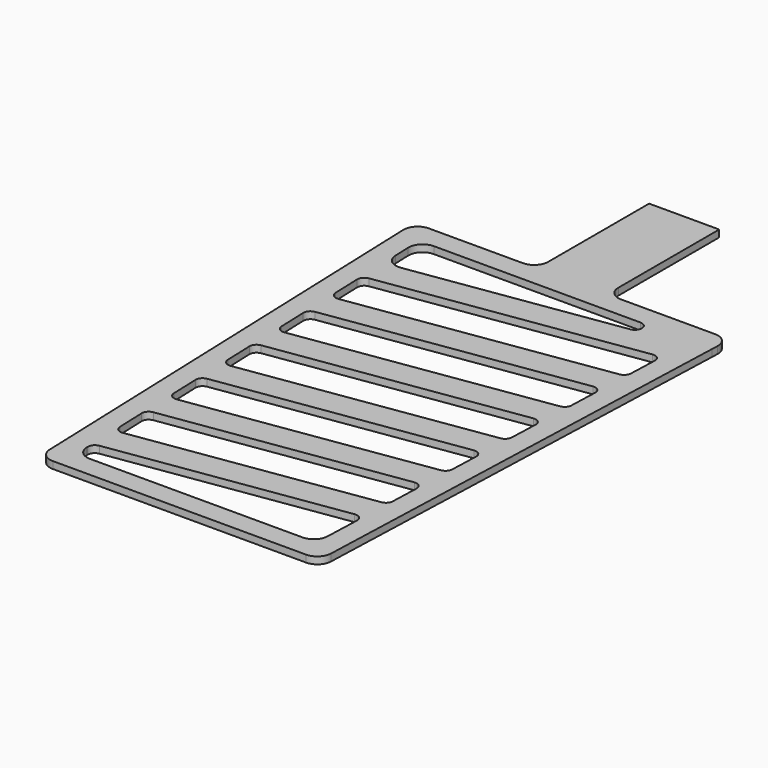
from build123d import *

# Parameters (mm, degrees)
F1_DEPTH = 1


with BuildPart() as f1:
    # F0 (on Top) → F1 (new body)
    with BuildSketch(Plane.XY):
        with BuildLine():
            Line((-22.392857, 32), (-20.068879, -33.071383))
            ThreePointArc((-20.068879, -33.071383), (-19.4589, -34.43923), (-18.070153, -35))
            Line((-18.070153, -35), (18.070153, -35))
            ThreePointArc((18.070153, -35), (19.4589, -34.43923), (20.068879, -33.071383))
            Line((20.068879, -33.071383), (22.392857, 32))
            Line((22.392857, 32), (22.426022, 32.928617))
            ThreePointArc((22.426022, 32.928617), (21.866526, 34.388747), (20.427296, 35))
            Line((20.427296, 35), (7, 35))
            ThreePointArc((7, 35), (5.585786, 35.585786), (5, 37))
            Line((5, 37), (5, 55))
            Line((5, 55), (-5, 55))
            Line((-5, 55), (-5, 37))
            ThreePointArc((-5, 37), (-5.585786, 35.585786), (-7, 35))
            Line((-7, 35), (-20.427296, 35))
            ThreePointArc((-20.427296, 35), (-21.866526, 34.388747), (-22.426022, 32.928617))
            Line((-22.426022, 32.928617), (-22.392857, 32))
        make_face()
        with BuildLine():
            Line((-16.32887, -28.869881), (16.206912, -24.007376))
            ThreePointArc((16.206912, -24.007376), (17.020899, -24.250598), (17.354084, -25.032083))
            Line((17.354084, -25.032083), (17.174109, -30.071383))
            ThreePointArc((17.174109, -30.071383), (16.56413, -31.43923), (15.175384, -32))
            Line((15.175384, -32), (-15.175384, -32))
            ThreePointArc((-15.175384, -32), (-16.56413, -31.43923), (-17.174109, -30.071383))
            Line((-17.174109, -30.071383), (-17.180423, -29.894589))
            ThreePointArc((-17.180423, -29.894589), (-16.950156, -29.219763), (-16.32887, -28.869881))
        make_face(mode=Mode.SUBTRACT)
        with BuildLine():
            Line((-16.688062, -18.812502), (16.569959, -13.842057))
            ThreePointArc((16.569959, -13.842057), (17.383946, -14.085279), (17.717131, -14.866764))
            Line((17.717131, -14.866764), (17.571913, -18.932892))
            ThreePointArc((17.571913, -18.932892), (17.318343, -19.563378), (16.720359, -19.886216))
            Line((16.720359, -19.886216), (-16.248766, -24.813485))
            ThreePointArc((-16.248766, -24.813485), (-17.03571, -24.593564), (-17.395939, -23.860161))
            Line((-17.395939, -23.860161), (-17.539616, -19.837209))
            ThreePointArc((-17.539616, -19.837209), (-17.309348, -19.162383), (-16.688062, -18.812502))
        make_face(mode=Mode.SUBTRACT)
        with BuildLine():
            Line((-17.047254, -8.755122), (16.933006, -3.676738))
            ThreePointArc((16.933006, -3.676738), (17.746993, -3.91996), (18.080179, -4.701445))
            Line((18.080179, -4.701445), (17.93496, -8.767573))
            ThreePointArc((17.93496, -8.767573), (17.68139, -9.398059), (17.083406, -9.720897))
            Line((17.083406, -9.720897), (-16.607959, -14.756106))
            ThreePointArc((-16.607959, -14.756106), (-17.394902, -14.536185), (-17.755131, -13.802781))
            Line((-17.755131, -13.802781), (-17.898808, -9.779829))
            ThreePointArc((-17.898808, -9.779829), (-17.66854, -9.105003), (-17.047254, -8.755122))
        make_face(mode=Mode.SUBTRACT)
        with BuildLine():
            Line((-17.406446, 1.302258), (17.296053, 6.488581))
            ThreePointArc((17.296053, 6.488581), (18.11004, 6.245359), (18.443226, 5.463874))
            Line((18.443226, 5.463874), (18.298007, 1.397746))
            ThreePointArc((18.298007, 1.397746), (18.044437, 0.76726), (17.446453, 0.444422))
            Line((17.446453, 0.444422), (-16.967151, -4.698726))
            ThreePointArc((-16.967151, -4.698726), (-17.754094, -4.478805), (-18.114323, -3.745402))
            Line((-18.114323, -3.745402), (-18.258, 0.27755))
            ThreePointArc((-18.258, 0.27755), (-18.027732, 0.952376), (-17.406446, 1.302258))
        make_face(mode=Mode.SUBTRACT)
        with BuildLine():
            ThreePointArc((12.16906, 32), (13.16631, 31.074108), (12.31687, 30.010984))
            Line((12.31687, 30.010984), (-16.937512, 25.638888))
            ThreePointArc((-16.937512, 25.638888), (-18.511399, 26.078729), (-19.231856, 27.545536))
            Line((-19.231856, 27.545536), (-19.316967, 29.928617))
            ThreePointArc((-19.316967, 29.928617), (-18.757471, 31.388747), (-17.318241, 32))
            Line((-17.318241, 32), (12.16906, 32))
        make_face(mode=Mode.SUBTRACT)
        with BuildLine():
            Line((-17.765639, 11.359637), (17.659101, 16.6539))
            ThreePointArc((17.659101, 16.6539), (18.473087, 16.410678), (18.806273, 15.629193))
            Line((18.806273, 15.629193), (18.661054, 11.563065))
            ThreePointArc((18.661054, 11.563065), (18.407485, 10.932579), (17.809501, 10.609741))
            Line((17.809501, 10.609741), (-17.326343, 5.358654))
            ThreePointArc((-17.326343, 5.358654), (-18.113287, 5.578575), (-18.473515, 6.311978))
            Line((-18.473515, 6.311978), (-18.617192, 10.33493))
            ThreePointArc((-18.617192, 10.33493), (-18.386924, 11.009756), (-17.765639, 11.359637))
        make_face(mode=Mode.SUBTRACT)
        with BuildLine():
            Line((-18.124831, 21.417017), (18.022148, 26.819219))
            ThreePointArc((18.022148, 26.819219), (18.836134, 26.575997), (19.16932, 25.794512))
            Line((19.16932, 25.794512), (19.024101, 21.728384))
            ThreePointArc((19.024101, 21.728384), (18.770532, 21.097898), (18.172548, 20.77506))
            Line((18.172548, 20.77506), (-17.685535, 15.416033))
            ThreePointArc((-17.685535, 15.416033), (-18.472479, 15.635954), (-18.832707, 16.369358))
            Line((-18.832707, 16.369358), (-18.976384, 20.39231))
            ThreePointArc((-18.976384, 20.39231), (-18.746116, 21.067135), (-18.124831, 21.417017))
        make_face(mode=Mode.SUBTRACT)
        with BuildLine():
            Line((-22.392857, 32), (-20.068879, -33.071383))
            ThreePointArc((-20.068879, -33.071383), (-19.4589, -34.43923), (-18.070153, -35))
            Line((-18.070153, -35), (18.070153, -35))
            ThreePointArc((18.070153, -35), (19.4589, -34.43923), (20.068879, -33.071383))
            Line((20.068879, -33.071383), (22.392857, 32))
            Line((22.392857, 32), (22.426022, 32.928617))
            ThreePointArc((22.426022, 32.928617), (21.866526, 34.388747), (20.427296, 35))
            Line((20.427296, 35), (7, 35))
            ThreePointArc((7, 35), (5.585786, 35.585786), (5, 37))
            Line((5, 37), (5, 55))
            Line((5, 55), (-5, 55))
            Line((-5, 55), (-5, 37))
            ThreePointArc((-5, 37), (-5.585786, 35.585786), (-7, 35))
            Line((-7, 35), (-20.427296, 35))
            ThreePointArc((-20.427296, 35), (-21.866526, 34.388747), (-22.426022, 32.928617))
            Line((-22.426022, 32.928617), (-22.392857, 32))
        make_face()
        with BuildLine():
            Line((-16.32887, -28.869881), (16.206912, -24.007376))
            ThreePointArc((16.206912, -24.007376), (17.020899, -24.250598), (17.354084, -25.032083))
            Line((17.354084, -25.032083), (17.174109, -30.071383))
            ThreePointArc((17.174109, -30.071383), (16.56413, -31.43923), (15.175384, -32))
            Line((15.175384, -32), (-15.175384, -32))
            ThreePointArc((-15.175384, -32), (-16.56413, -31.43923), (-17.174109, -30.071383))
            Line((-17.174109, -30.071383), (-17.180423, -29.894589))
            ThreePointArc((-17.180423, -29.894589), (-16.950156, -29.219763), (-16.32887, -28.869881))
        make_face(mode=Mode.SUBTRACT)
        with BuildLine():
            Line((-16.688062, -18.812502), (16.569959, -13.842057))
            ThreePointArc((16.569959, -13.842057), (17.383946, -14.085279), (17.717131, -14.866764))
            Line((17.717131, -14.866764), (17.571913, -18.932892))
            ThreePointArc((17.571913, -18.932892), (17.318343, -19.563378), (16.720359, -19.886216))
            Line((16.720359, -19.886216), (-16.248766, -24.813485))
            ThreePointArc((-16.248766, -24.813485), (-17.03571, -24.593564), (-17.395939, -23.860161))
            Line((-17.395939, -23.860161), (-17.539616, -19.837209))
            ThreePointArc((-17.539616, -19.837209), (-17.309348, -19.162383), (-16.688062, -18.812502))
        make_face(mode=Mode.SUBTRACT)
        with BuildLine():
            Line((-17.047254, -8.755122), (16.933006, -3.676738))
            ThreePointArc((16.933006, -3.676738), (17.746993, -3.91996), (18.080179, -4.701445))
            Line((18.080179, -4.701445), (17.93496, -8.767573))
            ThreePointArc((17.93496, -8.767573), (17.68139, -9.398059), (17.083406, -9.720897))
            Line((17.083406, -9.720897), (-16.607959, -14.756106))
            ThreePointArc((-16.607959, -14.756106), (-17.394902, -14.536185), (-17.755131, -13.802781))
            Line((-17.755131, -13.802781), (-17.898808, -9.779829))
            ThreePointArc((-17.898808, -9.779829), (-17.66854, -9.105003), (-17.047254, -8.755122))
        make_face(mode=Mode.SUBTRACT)
        with BuildLine():
            Line((-17.406446, 1.302258), (17.296053, 6.488581))
            ThreePointArc((17.296053, 6.488581), (18.11004, 6.245359), (18.443226, 5.463874))
            Line((18.443226, 5.463874), (18.298007, 1.397746))
            ThreePointArc((18.298007, 1.397746), (18.044437, 0.76726), (17.446453, 0.444422))
            Line((17.446453, 0.444422), (-16.967151, -4.698726))
            ThreePointArc((-16.967151, -4.698726), (-17.754094, -4.478805), (-18.114323, -3.745402))
            Line((-18.114323, -3.745402), (-18.258, 0.27755))
            ThreePointArc((-18.258, 0.27755), (-18.027732, 0.952376), (-17.406446, 1.302258))
        make_face(mode=Mode.SUBTRACT)
        with BuildLine():
            ThreePointArc((12.16906, 32), (13.16631, 31.074108), (12.31687, 30.010984))
            Line((12.31687, 30.010984), (-16.937512, 25.638888))
            ThreePointArc((-16.937512, 25.638888), (-18.511399, 26.078729), (-19.231856, 27.545536))
            Line((-19.231856, 27.545536), (-19.316967, 29.928617))
            ThreePointArc((-19.316967, 29.928617), (-18.757471, 31.388747), (-17.318241, 32))
            Line((-17.318241, 32), (12.16906, 32))
        make_face(mode=Mode.SUBTRACT)
        with BuildLine():
            Line((-17.765639, 11.359637), (17.659101, 16.6539))
            ThreePointArc((17.659101, 16.6539), (18.473087, 16.410678), (18.806273, 15.629193))
            Line((18.806273, 15.629193), (18.661054, 11.563065))
            ThreePointArc((18.661054, 11.563065), (18.407485, 10.932579), (17.809501, 10.609741))
            Line((17.809501, 10.609741), (-17.326343, 5.358654))
            ThreePointArc((-17.326343, 5.358654), (-18.113287, 5.578575), (-18.473515, 6.311978))
            Line((-18.473515, 6.311978), (-18.617192, 10.33493))
            ThreePointArc((-18.617192, 10.33493), (-18.386924, 11.009756), (-17.765639, 11.359637))
        make_face(mode=Mode.SUBTRACT)
        with BuildLine():
            Line((-18.124831, 21.417017), (18.022148, 26.819219))
            ThreePointArc((18.022148, 26.819219), (18.836134, 26.575997), (19.16932, 25.794512))
            Line((19.16932, 25.794512), (19.024101, 21.728384))
            ThreePointArc((19.024101, 21.728384), (18.770532, 21.097898), (18.172548, 20.77506))
            Line((18.172548, 20.77506), (-17.685535, 15.416033))
            ThreePointArc((-17.685535, 15.416033), (-18.472479, 15.635954), (-18.832707, 16.369358))
            Line((-18.832707, 16.369358), (-18.976384, 20.39231))
            ThreePointArc((-18.976384, 20.39231), (-18.746116, 21.067135), (-18.124831, 21.417017))
        make_face(mode=Mode.SUBTRACT)
    extrude(amount=F1_DEPTH)


solid = f1.part
